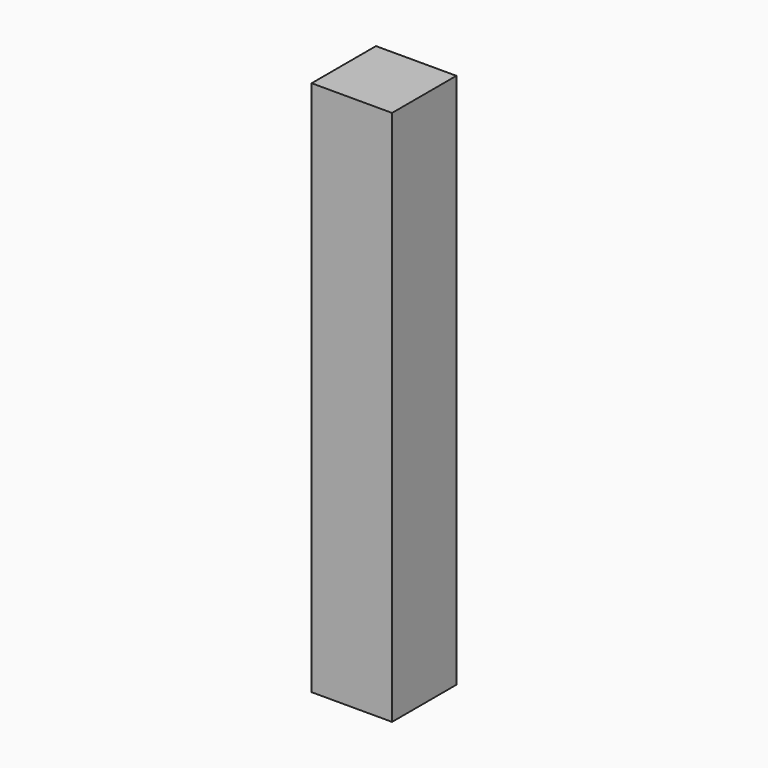
from build123d import *

# Parameters (mm, degrees)
F0_W     = 150
F0_H     = 150
F1_DEPTH = 1000
F2_R     = 0.5
F3_DEPTH = 15


with BuildPart() as f1:
    # F0 (on Top) → F1 (new body)
    with BuildSketch(Plane.XY):
        Rectangle(F0_W, F0_H)
    extrude(amount=F1_DEPTH)


with BuildPart() as f3:
    # F2 (on face) → F3 (new body)
    with BuildSketch(Plane(origin=(0, 0, 0), x_dir=(1, 0, 0), z_dir=(0, 0, -1))):
        with Locations((3.008616, -2.993949)):
            Circle(F2_R)
        with Locations((-2.991219, 4.482475)):
            Circle(F2_R)
        with Locations((1.512125, -1.499951)):
            Circle(F2_R)
        with Locations((-2.991384, -2.993949)):
            Circle(F2_R)
        with Locations((-4.487875, 1.499951)):
            Circle(F2_R)
        with Locations((4.508781, 4.482475)):
            Circle(F2_R)
        with Locations((-4.491384, 2.993949)):
            Circle(F2_R)
        with Locations((1.508781, 4.482475)):
            Circle(F2_R)
        with Locations((3.008616, 2.993949)):
            Circle(F2_R)
        with Locations((-4.491384, -2.993949)):
            Circle(F2_R)
        with Locations((-1.491384, 2.993949)):
            Circle(F2_R)
        with Locations((-1.491384, -2.993949)):
            Circle(F2_R)
        with Locations((3.012125, -1.499951)):
            Circle(F2_R)
        with Locations((-2.991219, -4.482475)):
            Circle(F2_R)
        with Locations((1.508781, -4.482475)):
            Circle(F2_R)
        Circle(F2_R)
        with Locations((1.5, 0)):
            Circle(F2_R)
        with Locations((3, 0)):
            Circle(F2_R)
        with Locations((4.5, 0)):
            Circle(F2_R)
        with Locations((-1.5, 0)):
            Circle(F2_R)
        with Locations((-3, 0)):
            Circle(F2_R)
        with Locations((-4.5, 0)):
            Circle(F2_R)
        with Locations((0.012125, 1.499951)):
            Circle(F2_R)
        with Locations((1.512125, 1.499951)):
            Circle(F2_R)
        with Locations((3.012125, 1.499951)):
            Circle(F2_R)
        with Locations((4.512125, 1.499951)):
            Circle(F2_R)
        with Locations((4.508616, -2.993949)):
            Circle(F2_R)
        with Locations((-1.487875, 1.499951)):
            Circle(F2_R)
        with Locations((-4.487875, -1.499951)):
            Circle(F2_R)
        with Locations((-2.991384, 2.993949)):
            Circle(F2_R)
        with Locations((-2.987875, 1.499951)):
            Circle(F2_R)
        with Locations((4.508781, -4.482475)):
            Circle(F2_R)
        with Locations((3.008781, 4.482475)):
            Circle(F2_R)
        with Locations((-1.487875, -1.499951)):
            Circle(F2_R)
        with Locations((-4.491219, -4.482475)):
            Circle(F2_R)
        with Locations((-4.491219, 4.482475)):
            Circle(F2_R)
        with Locations((4.512125, -1.499951)):
            Circle(F2_R)
        with Locations((-2.987875, -1.499951)):
            Circle(F2_R)
        with Locations((4.508616, 2.993949)):
            Circle(F2_R)
        with Locations((0.012125, -1.499951)):
            Circle(F2_R)
        with Locations((3.008781, -4.482475)):
            Circle(F2_R)
        with Locations((0.008781, -4.482475)):
            Circle(F2_R)
        with Locations((-1.491219, -4.482475)):
            Circle(F2_R)
        with Locations((0.008781, 4.482475)):
            Circle(F2_R)
        with Locations((-1.491219, 4.482475)):
            Circle(F2_R)
        with Locations((1.508616, -2.993949)):
            Circle(F2_R)
        with Locations((0.008616, -2.993949)):
            Circle(F2_R)
        with Locations((0.008616, 2.993949)):
            Circle(F2_R)
        with Locations((1.508616, 2.993949)):
            Circle(F2_R)
    extrude(amount=F3_DEPTH)


solid = Compound([f1.part, f3.part])
